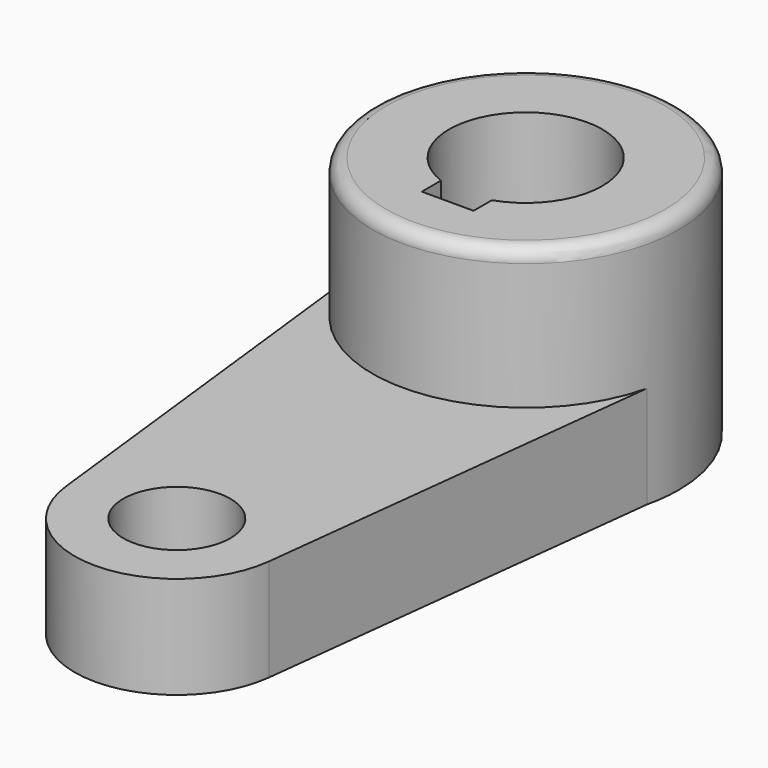
from build123d import *

# Parameters (mm, degrees)
F0_R     = 9.975886
F2_DEPTH = 19.05
F1_R     = 28.575
F3_DEPTH = 45.212
F4_R     = 2.54


with BuildPart() as f2:
    # F0 (on Top) → F2 (new body)
    with BuildSketch(Plane.XY):
        with BuildLine():
            Line((18.923924, -83.46952), (28.575, 0))
            ThreePointArc((28.575, 0), (0, 28.575), (-28.575, 0))
            Line((-28.575, 0), (-18.923924, -83.46952))
            ThreePointArc((-18.923924, -83.46952), (0, -100.331461), (18.923924, -83.46952))
        make_face()
        with Locations((0, -81.281461)):
            Circle(F0_R, mode=Mode.SUBTRACT)
        with BuildLine():
            ThreePointArc((-5.112984, -13.341291), (0.304913, 14.284246), (4.539016, -13.547324))
            Line((4.539016, -13.547324), (4.539016, -17.816696))
            Line((4.539016, -17.816696), (-5.112984, -17.816696))
            Line((-5.112984, -17.816696), (-5.112984, -13.341291))
        make_face(mode=Mode.SUBTRACT)
    extrude(amount=F2_DEPTH)

    # F1 (on Top) → F3 (join)
    with BuildSketch(Plane.XY):
        Circle(F1_R)
        with BuildLine():
            ThreePointArc((-5.112984, -13.341291), (0.304913, 14.284246), (4.539016, -13.547324))
            Line((4.539016, -13.547324), (4.539016, -17.816696))
            Line((4.539016, -17.816696), (-5.112984, -17.816696))
            Line((-5.112984, -17.816696), (-5.112984, -13.341291))
        make_face(mode=Mode.SUBTRACT)
    extrude(amount=F3_DEPTH)

    # F4
    f4_edges = [f2.edges().sort_by_distance(p)[0] for p in [
        (-28.575, 0, 45.212),
    ]]
    fillet(f4_edges, radius=F4_R)


solid = f2.part
